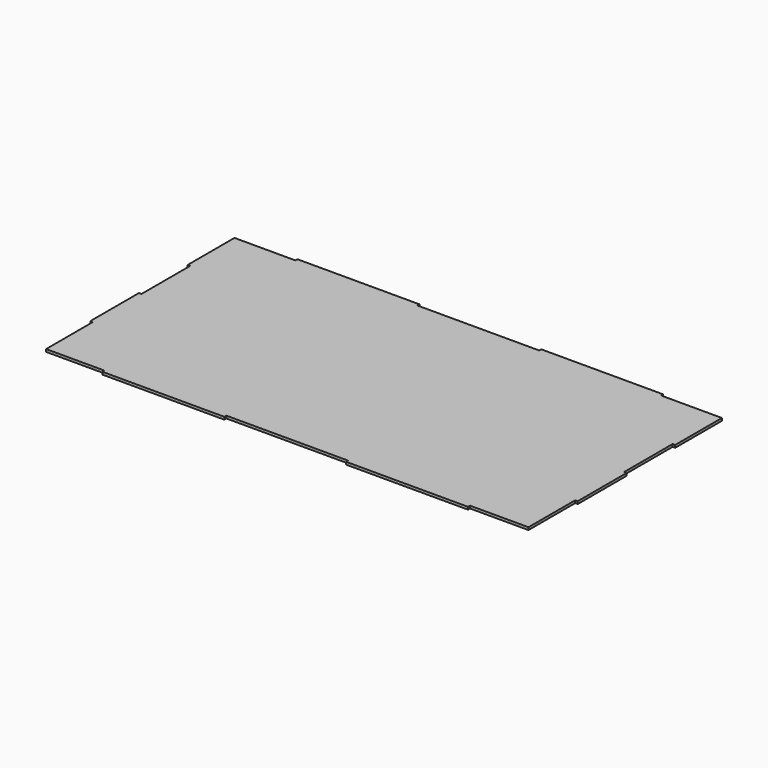
from build123d import *

# Parameters (mm, degrees)
F0_W     = 609.6
F0_H     = 304.8
F1_DEPTH = 3.175
F2_W     = 76.2
F2_H     = 3.175
F3_DEPTH = 3.176
F4_W     = 3.175
F4_H     = 76.2
F4_H_2   = 73.025
F5_DEPTH = 3.176


with BuildPart() as f1:
    # F0 (on Top) → F1 (new body)
    with BuildSketch(Plane.XY):
        with Locations((84.824273, 1.423104)):
            Rectangle(F0_W, F0_H)
    extrude(amount=F1_DEPTH)

    # F2 (on face) → F3 (cut, through all)
    with BuildSketch(Plane.XY.offset(3.175)):
        with Locations((-181.875727, 152.235604)):
            Rectangle(F2_W, F2_H)
        with Locations((351.524273, 152.235604)):
            Rectangle(F2_W, F2_H)
        with Locations((-181.875727, -149.389396)):
            Rectangle(F2_W, F2_H)
        with Locations((351.524273, -149.389396)):
            Rectangle(F2_W, F2_H)
        with Locations((46.724273, 152.235604)):
            Rectangle(F2_W, F2_H)
        with Locations((122.924273, 152.235604)):
            Rectangle(F2_W, F2_H)
        with Locations((46.724273, -149.389396)):
            Rectangle(F2_W, F2_H)
        with Locations((122.924273, -149.389396)):
            Rectangle(F2_W, F2_H)
    extrude(amount=-F3_DEPTH, mode=Mode.SUBTRACT)

    # F4 (on face) → F5 (cut, through all)
    with BuildSketch(Plane.XY.offset(3.175)):
        with Locations((388.036773, 39.523104)):
            Rectangle(F4_W, F4_H)
        with Locations((388.036773, -111.289396)):
            Rectangle(F4_W, F4_H_2)
        with Locations((-218.388227, -111.289396)):
            Rectangle(F4_W, F4_H_2)
        with Locations((-218.388227, 39.523104)):
            Rectangle(F4_W, F4_H)
    extrude(amount=-F5_DEPTH, mode=Mode.SUBTRACT)


solid = f1.part
